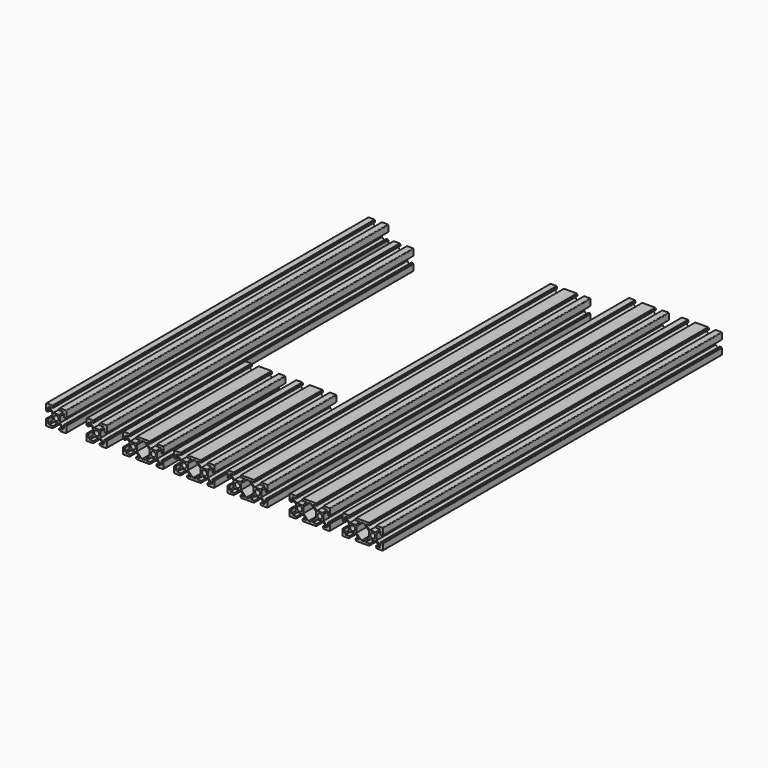
from build123d import *

# Parameters (mm, degrees)
F0_R      = 2.45
F1_DEPTH  = 399
F2_R      = 2.45
F3_DEPTH  = 380
F4_R      = 2.45
F5_DEPTH  = 151
F7_R      = 2.45
F8_DEPTH  = 400
F9_R      = 2.45
F10_DEPTH = 420


with BuildPart() as f1:
    # F0 (on Front) → F1 (new body)
    with BuildSketch(Plane.XZ):
        with BuildLine():
            ThreePointArc((-51.791986, 0), (-51.367722, 0.175736), (-51.191986, 0.6))
            Line((-51.191986, 0.6), (-51.191986, 6.4))
            Line((-51.191986, 6.4), (-51.791986, 6.4))
            Line((-51.791986, 6.4), (-51.791986, 6.95))
            Line((-51.791986, 6.95), (-53.291986, 6.95))
            Line((-53.291986, 6.95), (-53.291986, 3.019239))
            Line((-53.291986, 3.019239), (-57.391986, 7.119239))
            Line((-57.391986, 7.119239), (-57.391986, 12.880761))
            Line((-57.391986, 12.880761), (-53.291986, 16.980761))
            Line((-53.291986, 16.980761), (-53.291986, 13.05))
            Line((-53.291986, 13.05), (-51.791986, 13.05))
            Line((-51.791986, 13.05), (-51.791986, 13.6))
            Line((-51.791986, 13.6), (-51.191986, 13.6))
            Line((-51.191986, 13.6), (-51.191986, 19.4))
            ThreePointArc((-51.191986, 19.4), (-51.367722, 19.824264), (-51.791986, 20))
            Line((-51.791986, 20), (-57.591986, 20))
            Line((-57.591986, 20), (-57.591986, 19.4))
            Line((-57.591986, 19.4), (-58.141986, 19.4))
            Line((-58.141986, 19.4), (-58.141986, 17.9))
            Line((-58.141986, 17.9), (-54.211225, 17.9))
            Line((-54.211225, 17.9), (-58.311225, 13.8))
            Line((-58.311225, 13.8), (-64.072747, 13.8))
            Line((-64.072747, 13.8), (-68.172747, 17.9))
            Line((-68.172747, 17.9), (-64.241986, 17.9))
            Line((-64.241986, 17.9), (-64.241986, 19.4))
            Line((-64.241986, 19.4), (-64.791986, 19.4))
            Line((-64.791986, 19.4), (-64.791986, 20))
            Line((-64.791986, 20), (-70.591986, 20))
            ThreePointArc((-70.591986, 20), (-71.01625, 19.824264), (-71.191986, 19.4))
            Line((-71.191986, 19.4), (-71.191986, 13.6))
            Line((-71.191986, 13.6), (-70.591986, 13.6))
            Line((-70.591986, 13.6), (-70.591986, 13.05))
            Line((-70.591986, 13.05), (-69.091986, 13.05))
            Line((-69.091986, 13.05), (-69.091986, 16.980761))
            Line((-69.091986, 16.980761), (-64.991986, 12.880761))
            Line((-64.991986, 12.880761), (-64.991986, 7.119239))
            Line((-64.991986, 7.119239), (-69.091986, 3.019239))
            Line((-69.091986, 3.019239), (-69.091986, 6.95))
            Line((-69.091986, 6.95), (-70.591986, 6.95))
            Line((-70.591986, 6.95), (-70.591986, 6.4))
            Line((-70.591986, 6.4), (-71.191986, 6.4))
            Line((-71.191986, 6.4), (-71.191986, 0.6))
            ThreePointArc((-71.191986, 0.6), (-71.01625, 0.175736), (-70.591986, 0))
            Line((-70.591986, 0), (-64.791986, 0))
            Line((-64.791986, 0), (-64.791986, 0.6))
            Line((-64.791986, 0.6), (-64.241986, 0.6))
            Line((-64.241986, 0.6), (-64.241986, 2.1))
            Line((-64.241986, 2.1), (-68.172747, 2.1))
            Line((-68.172747, 2.1), (-64.072747, 6.2))
            Line((-64.072747, 6.2), (-58.311225, 6.2))
            Line((-58.311225, 6.2), (-54.211225, 2.1))
            Line((-54.211225, 2.1), (-58.141986, 2.1))
            Line((-58.141986, 2.1), (-58.141986, 0.6))
            Line((-58.141986, 0.6), (-57.591986, 0.6))
            Line((-57.591986, 0.6), (-57.591986, 0))
            Line((-57.591986, 0), (-51.791986, 0))
        make_face()
        with Locations((-61.191986, 10)):
            Circle(F0_R, mode=Mode.SUBTRACT)
    extrude(amount=-F1_DEPTH)


with BuildPart() as f3:
    # F2 (on Front) → F3 (new body)
    with BuildSketch(Plane.XZ):
        with BuildLine():
            ThreePointArc((-11.662402, -0.007185), (-11.238138, 0.168551), (-11.062402, 0.592815))
            Line((-11.062402, 0.592815), (-11.062402, 2.985624))
            Line((-11.062402, 2.985624), (-11.062402, 6.392815))
            Line((-11.062402, 6.392815), (-11.662402, 6.392815))
            Line((-11.662402, 6.392815), (-11.662402, 6.942815))
            Line((-11.662402, 6.942815), (-13.162402, 6.942815))
            Line((-13.162402, 6.942815), (-13.162402, 3.012054))
            Line((-13.162402, 3.012054), (-17.262402, 7.112054))
            Line((-17.262402, 7.112054), (-17.262402, 12.873576))
            Line((-17.262402, 12.873576), (-13.162402, 16.973576))
            Line((-13.162402, 16.973576), (-13.162402, 13.042815))
            Line((-13.162402, 13.042815), (-11.662402, 13.042815))
            Line((-11.662402, 13.042815), (-11.662402, 13.592815))
            Line((-11.662402, 13.592815), (-11.062402, 13.592815))
            Line((-11.062402, 13.592815), (-11.062402, 19.392815))
            ThreePointArc((-11.062402, 19.392815), (-11.238138, 19.817079), (-11.662402, 19.992815))
            Line((-11.662402, 19.992815), (-17.462402, 19.992815))
            Line((-17.462402, 19.992815), (-17.462402, 19.392815))
            Line((-17.462402, 19.392815), (-18.012402, 19.392815))
            Line((-18.012402, 19.392815), (-18.012402, 17.892815))
            Line((-18.012402, 17.892815), (-14.081641, 17.892815))
            Line((-14.081641, 17.892815), (-18.181641, 13.792815))
            Line((-18.181641, 13.792815), (-23.943164, 13.792815))
            Line((-23.943164, 13.792815), (-28.043164, 17.892815))
            Line((-28.043164, 17.892815), (-24.112402, 17.892815))
            Line((-24.112402, 17.892815), (-24.112402, 19.392815))
            Line((-24.112402, 19.392815), (-24.662402, 19.392815))
            Line((-24.662402, 19.392815), (-24.662402, 19.992815))
            Line((-24.662402, 19.992815), (-30.462402, 19.992815))
            ThreePointArc((-30.462402, 19.992815), (-30.886667, 19.817079), (-31.062402, 19.392815))
            Line((-31.062402, 19.392815), (-31.062402, 13.592815))
            Line((-31.062402, 13.592815), (-30.462402, 13.592815))
            Line((-30.462402, 13.592815), (-30.462402, 13.042815))
            Line((-30.462402, 13.042815), (-28.962402, 13.042815))
            Line((-28.962402, 13.042815), (-28.962402, 16.973576))
            Line((-28.962402, 16.973576), (-24.862402, 12.873576))
            Line((-24.862402, 12.873576), (-24.862402, 7.112054))
            Line((-24.862402, 7.112054), (-28.962402, 3.012054))
            Line((-28.962402, 3.012054), (-28.962402, 6.942815))
            Line((-28.962402, 6.942815), (-30.462402, 6.942815))
            Line((-30.462402, 6.942815), (-30.462402, 6.392815))
            Line((-30.462402, 6.392815), (-31.062402, 6.392815))
            Line((-31.062402, 6.392815), (-31.062402, 2.985624))
            Line((-31.062402, 2.985624), (-31.062402, 0.592815))
            ThreePointArc((-31.062402, 0.592815), (-30.886667, 0.168551), (-30.462402, -0.007185))
            Line((-30.462402, -0.007185), (-24.662402, -0.007185))
            Line((-24.662402, -0.007185), (-24.662402, 0.592815))
            Line((-24.662402, 0.592815), (-24.112402, 0.592815))
            Line((-24.112402, 0.592815), (-24.112402, 2.092815))
            Line((-24.112402, 2.092815), (-28.043164, 2.092815))
            Line((-28.043164, 2.092815), (-23.943164, 6.192815))
            Line((-23.943164, 6.192815), (-18.181641, 6.192815))
            Line((-18.181641, 6.192815), (-14.081641, 2.092815))
            Line((-14.081641, 2.092815), (-18.012402, 2.092815))
            Line((-18.012402, 2.092815), (-18.012402, 0.592815))
            Line((-18.012402, 0.592815), (-17.462402, 0.592815))
            Line((-17.462402, 0.592815), (-17.462402, -0.007185))
            Line((-17.462402, -0.007185), (-11.662402, -0.007185))
        make_face()
        with Locations((-21.062402, 9.992815)):
            Circle(F2_R, mode=Mode.SUBTRACT)
    extrude(amount=-F3_DEPTH)


with BuildPart() as f5:
    # F4 (on Front) → F5 (new body)
    with BuildSketch(Plane.XZ):
        with BuildLine():
            Line((12.230867, 6.2), (17.992389, 6.2))
            Line((17.992389, 6.2), (22.092389, 2.1))
            Line((22.092389, 2.1), (18.161628, 2.1))
            Line((18.161628, 2.1), (18.161628, 0.6))
            Line((18.161628, 0.6), (18.711628, 0.6))
            Line((18.711628, 0.6), (18.711628, 0))
            Line((18.711628, 0), (24.511628, 0))
            Line((24.511628, 0), (25.711628, 0))
            Line((25.711628, 0), (31.511628, 0))
            Line((31.511628, 0), (31.511628, 0.6))
            Line((31.511628, 0.6), (32.061628, 0.6))
            Line((32.061628, 0.6), (32.061628, 2.1))
            Line((32.061628, 2.1), (28.130867, 2.1))
            Line((28.130867, 2.1), (32.230867, 6.2))
            Line((32.230867, 6.2), (37.992389, 6.2))
            Line((37.992389, 6.2), (42.092389, 2.1))
            Line((42.092389, 2.1), (38.161628, 2.1))
            Line((38.161628, 2.1), (38.161628, 0.6))
            Line((38.161628, 0.6), (38.711628, 0.6))
            Line((38.711628, 0.6), (38.711628, 0))
            Line((38.711628, 0), (44.511628, 0))
            ThreePointArc((44.511628, 0), (44.935892, 0.175736), (45.111628, 0.6))
            Line((45.111628, 0.6), (45.111628, 2.992809))
            Line((45.111628, 2.992809), (45.111628, 6.4))
            Line((45.111628, 6.4), (44.511628, 6.4))
            Line((44.511628, 6.4), (44.511628, 6.95))
            Line((44.511628, 6.95), (43.011628, 6.95))
            Line((43.011628, 6.95), (43.011628, 3.019239))
            Line((43.011628, 3.019239), (38.911628, 7.119239))
            Line((38.911628, 7.119239), (38.911628, 12.880761))
            Line((38.911628, 12.880761), (43.011628, 16.980761))
            Line((43.011628, 16.980761), (43.011628, 13.05))
            Line((43.011628, 13.05), (44.511628, 13.05))
            Line((44.511628, 13.05), (44.511628, 13.6))
            Line((44.511628, 13.6), (45.111628, 13.6))
            Line((45.111628, 13.6), (45.111628, 19.4))
            ThreePointArc((45.111628, 19.4), (44.935892, 19.824264), (44.511628, 20))
            Line((44.511628, 20), (38.711628, 20))
            Line((38.711628, 20), (38.711628, 19.4))
            Line((38.711628, 19.4), (38.161628, 19.4))
            Line((38.161628, 19.4), (38.161628, 17.9))
            Line((38.161628, 17.9), (42.092389, 17.9))
            Line((42.092389, 17.9), (37.992389, 13.8))
            Line((37.992389, 13.8), (32.230867, 13.8))
            Line((32.230867, 13.8), (28.130867, 17.9))
            Line((28.130867, 17.9), (32.061628, 17.9))
            Line((32.061628, 17.9), (32.061628, 19.4))
            Line((32.061628, 19.4), (31.511628, 19.4))
            Line((31.511628, 19.4), (31.511628, 20))
            Line((31.511628, 20), (25.711628, 20))
            Line((25.711628, 20), (24.511628, 20))
            Line((24.511628, 20), (18.711628, 20))
            Line((18.711628, 20), (18.711628, 19.4))
            Line((18.711628, 19.4), (18.161628, 19.4))
            Line((18.161628, 19.4), (18.161628, 17.9))
            Line((18.161628, 17.9), (22.092389, 17.9))
            Line((22.092389, 17.9), (17.992389, 13.8))
            Line((17.992389, 13.8), (12.230867, 13.8))
            Line((12.230867, 13.8), (8.130867, 17.9))
            Line((8.130867, 17.9), (12.061628, 17.9))
            Line((12.061628, 17.9), (12.061628, 19.4))
            Line((12.061628, 19.4), (11.511628, 19.4))
            Line((11.511628, 19.4), (11.511628, 20))
            Line((11.511628, 20), (5.711628, 20))
            ThreePointArc((5.711628, 20), (5.287364, 19.824264), (5.111628, 19.4))
            Line((5.111628, 19.4), (5.111628, 13.6))
            Line((5.111628, 13.6), (5.711628, 13.6))
            Line((5.711628, 13.6), (5.711628, 13.05))
            Line((5.711628, 13.05), (7.211628, 13.05))
            Line((7.211628, 13.05), (7.211628, 16.980761))
            Line((7.211628, 16.980761), (11.311628, 12.880761))
            Line((11.311628, 12.880761), (11.311628, 7.119239))
            Line((11.311628, 7.119239), (7.211628, 3.019239))
            Line((7.211628, 3.019239), (7.211628, 6.95))
            Line((7.211628, 6.95), (5.711628, 6.95))
            Line((5.711628, 6.95), (5.711628, 6.4))
            Line((5.711628, 6.4), (5.111628, 6.4))
            Line((5.111628, 6.4), (5.111628, 2.992809))
            Line((5.111628, 2.992809), (5.111628, 0.6))
            ThreePointArc((5.111628, 0.6), (5.287364, 0.175736), (5.711628, 0))
            Line((5.711628, 0), (11.511628, 0))
            Line((11.511628, 0), (11.511628, 0.6))
            Line((11.511628, 0.6), (12.061628, 0.6))
            Line((12.061628, 0.6), (12.061628, 2.1))
            Line((12.061628, 2.1), (8.130867, 2.1))
            Line((8.130867, 2.1), (12.230867, 6.2))
        make_face()
        with Locations((15.111628, 10)):
            Circle(F4_R, mode=Mode.SUBTRACT)
        Polygon((23.011628, 3.019239), (18.911628, 7.119239), (18.911628, 12.880761), (23.011628, 16.980761), (23.930867, 17.9), (26.292389, 17.9), (27.211628, 16.980761), (31.311628, 12.880761), (31.311628, 7.119239), (27.211628, 3.019239), (26.292389, 2.1), (23.930867, 2.1), align=None, mode=Mode.SUBTRACT)
        with Locations((35.111628, 10)):
            Circle(F4_R, mode=Mode.SUBTRACT)
    extrude(amount=-F5_DEPTH)


with BuildPart() as f6_1:
    # F6: copy of F5
    add(f5.part.moved(Location((50.5, 0, 0))))


with BuildPart() as f8:
    # F7 (on Front) → F8 (new body)
    with BuildSketch(Plane.XZ):
        with BuildLine():
            Line((115.519244, 6.2), (121.280766, 6.2))
            Line((121.280766, 6.2), (125.380766, 2.1))
            Line((125.380766, 2.1), (121.450005, 2.1))
            Line((121.450005, 2.1), (121.450005, 0.6))
            Line((121.450005, 0.6), (122.000005, 0.6))
            Line((122.000005, 0.6), (122.000005, 0))
            Line((122.000005, 0), (127.800005, 0))
            Line((127.800005, 0), (129.000005, 0))
            Line((129.000005, 0), (134.800005, 0))
            Line((134.800005, 0), (134.800005, 0.6))
            Line((134.800005, 0.6), (135.350005, 0.6))
            Line((135.350005, 0.6), (135.350005, 2.1))
            Line((135.350005, 2.1), (131.419244, 2.1))
            Line((131.419244, 2.1), (135.519244, 6.2))
            Line((135.519244, 6.2), (141.280766, 6.2))
            Line((141.280766, 6.2), (145.380766, 2.1))
            Line((145.380766, 2.1), (141.450005, 2.1))
            Line((141.450005, 2.1), (141.450005, 0.6))
            Line((141.450005, 0.6), (142.000005, 0.6))
            Line((142.000005, 0.6), (142.000005, 0))
            Line((142.000005, 0), (147.800005, 0))
            ThreePointArc((147.800005, 0), (148.224269, 0.175736), (148.400005, 0.6))
            Line((148.400005, 0.6), (148.400005, 2.992809))
            Line((148.400005, 2.992809), (148.400005, 6.4))
            Line((148.400005, 6.4), (147.800005, 6.4))
            Line((147.800005, 6.4), (147.800005, 6.95))
            Line((147.800005, 6.95), (146.300005, 6.95))
            Line((146.300005, 6.95), (146.300005, 3.019239))
            Line((146.300005, 3.019239), (142.200005, 7.119239))
            Line((142.200005, 7.119239), (142.200005, 12.880761))
            Line((142.200005, 12.880761), (146.300005, 16.980761))
            Line((146.300005, 16.980761), (146.300005, 13.05))
            Line((146.300005, 13.05), (147.800005, 13.05))
            Line((147.800005, 13.05), (147.800005, 13.6))
            Line((147.800005, 13.6), (148.400005, 13.6))
            Line((148.400005, 13.6), (148.400005, 19.4))
            ThreePointArc((148.400005, 19.4), (148.224269, 19.824264), (147.800005, 20))
            Line((147.800005, 20), (142.000005, 20))
            Line((142.000005, 20), (142.000005, 19.4))
            Line((142.000005, 19.4), (141.450005, 19.4))
            Line((141.450005, 19.4), (141.450005, 17.9))
            Line((141.450005, 17.9), (145.380766, 17.9))
            Line((145.380766, 17.9), (141.280766, 13.8))
            Line((141.280766, 13.8), (135.519244, 13.8))
            Line((135.519244, 13.8), (131.419244, 17.9))
            Line((131.419244, 17.9), (135.350005, 17.9))
            Line((135.350005, 17.9), (135.350005, 19.4))
            Line((135.350005, 19.4), (134.800005, 19.4))
            Line((134.800005, 19.4), (134.800005, 20))
            Line((134.800005, 20), (129.000005, 20))
            Line((129.000005, 20), (127.800005, 20))
            Line((127.800005, 20), (122.000005, 20))
            Line((122.000005, 20), (122.000005, 19.4))
            Line((122.000005, 19.4), (121.450005, 19.4))
            Line((121.450005, 19.4), (121.450005, 17.9))
            Line((121.450005, 17.9), (125.380766, 17.9))
            Line((125.380766, 17.9), (121.280766, 13.8))
            Line((121.280766, 13.8), (115.519244, 13.8))
            Line((115.519244, 13.8), (111.419244, 17.9))
            Line((111.419244, 17.9), (115.350005, 17.9))
            Line((115.350005, 17.9), (115.350005, 19.4))
            Line((115.350005, 19.4), (114.800005, 19.4))
            Line((114.800005, 19.4), (114.800005, 20))
            Line((114.800005, 20), (109.000005, 20))
            ThreePointArc((109.000005, 20), (108.575741, 19.824264), (108.400005, 19.4))
            Line((108.400005, 19.4), (108.400005, 13.6))
            Line((108.400005, 13.6), (109.000005, 13.6))
            Line((109.000005, 13.6), (109.000005, 13.05))
            Line((109.000005, 13.05), (110.500005, 13.05))
            Line((110.500005, 13.05), (110.500005, 16.980761))
            Line((110.500005, 16.980761), (114.600005, 12.880761))
            Line((114.600005, 12.880761), (114.600005, 7.119239))
            Line((114.600005, 7.119239), (110.500005, 3.019239))
            Line((110.500005, 3.019239), (110.500005, 6.95))
            Line((110.500005, 6.95), (109.000005, 6.95))
            Line((109.000005, 6.95), (109.000005, 6.4))
            Line((109.000005, 6.4), (108.400005, 6.4))
            Line((108.400005, 6.4), (108.400005, 2.992809))
            Line((108.400005, 2.992809), (108.400005, 0.6))
            ThreePointArc((108.400005, 0.6), (108.575741, 0.175736), (109.000005, 0))
            Line((109.000005, 0), (114.800005, 0))
            Line((114.800005, 0), (114.800005, 0.6))
            Line((114.800005, 0.6), (115.350005, 0.6))
            Line((115.350005, 0.6), (115.350005, 2.1))
            Line((115.350005, 2.1), (111.419244, 2.1))
            Line((111.419244, 2.1), (115.519244, 6.2))
        make_face()
        with Locations((118.400005, 10)):
            Circle(F7_R, mode=Mode.SUBTRACT)
        Polygon((126.300005, 3.019239), (122.200005, 7.119239), (122.200005, 12.880761), (126.300005, 16.980761), (127.219244, 17.9), (129.580766, 17.9), (130.500005, 16.980761), (134.600005, 12.880761), (134.600005, 7.119239), (130.500005, 3.019239), (129.580766, 2.1), (127.219244, 2.1), align=None, mode=Mode.SUBTRACT)
        with Locations((138.400005, 10)):
            Circle(F7_R, mode=Mode.SUBTRACT)
    extrude(amount=-F8_DEPTH)


with BuildPart() as f10:
    # F9 (on Front) → F10 (new body)
    with BuildSketch(Plane.XZ):
        with BuildLine():
            Line((177.169244, 5.774545), (182.930767, 5.774545))
            Line((182.930767, 5.774545), (187.030767, 1.674545))
            Line((187.030767, 1.674545), (183.100005, 1.674545))
            Line((183.100005, 1.674545), (183.100005, 0.174545))
            Line((183.100005, 0.174545), (183.650005, 0.174545))
            Line((183.650005, 0.174545), (183.650005, -0.425455))
            Line((183.650005, -0.425455), (189.450005, -0.425455))
            Line((189.450005, -0.425455), (190.650005, -0.425455))
            Line((190.650005, -0.425455), (196.450005, -0.425455))
            Line((196.450005, -0.425455), (196.450005, 0.174545))
            Line((196.450005, 0.174545), (197.000005, 0.174545))
            Line((197.000005, 0.174545), (197.000005, 1.674545))
            Line((197.000005, 1.674545), (193.069244, 1.674545))
            Line((193.069244, 1.674545), (197.169244, 5.774545))
            Line((197.169244, 5.774545), (202.930767, 5.774545))
            Line((202.930767, 5.774545), (207.030767, 1.674545))
            Line((207.030767, 1.674545), (203.100005, 1.674545))
            Line((203.100005, 1.674545), (203.100005, 0.174545))
            Line((203.100005, 0.174545), (203.650005, 0.174545))
            Line((203.650005, 0.174545), (203.650005, -0.425455))
            Line((203.650005, -0.425455), (209.450005, -0.425455))
            ThreePointArc((209.450005, -0.425455), (209.874269, -0.249719), (210.050005, 0.174545))
            Line((210.050005, 0.174545), (210.050005, 2.567354))
            Line((210.050005, 2.567354), (210.050005, 5.974545))
            Line((210.050005, 5.974545), (209.450005, 5.974545))
            Line((209.450005, 5.974545), (209.450005, 6.524545))
            Line((209.450005, 6.524545), (207.950005, 6.524545))
            Line((207.950005, 6.524545), (207.950005, 2.593784))
            Line((207.950005, 2.593784), (203.850005, 6.693784))
            Line((203.850005, 6.693784), (203.850005, 12.455306))
            Line((203.850005, 12.455306), (207.950005, 16.555306))
            Line((207.950005, 16.555306), (207.950005, 12.624545))
            Line((207.950005, 12.624545), (209.450005, 12.624545))
            Line((209.450005, 12.624545), (209.450005, 13.174545))
            Line((209.450005, 13.174545), (210.050005, 13.174545))
            Line((210.050005, 13.174545), (210.050005, 18.974545))
            ThreePointArc((210.050005, 18.974545), (209.874269, 19.398809), (209.450005, 19.574545))
            Line((209.450005, 19.574545), (203.650005, 19.574545))
            Line((203.650005, 19.574545), (203.650005, 18.974545))
            Line((203.650005, 18.974545), (203.100005, 18.974545))
            Line((203.100005, 18.974545), (203.100005, 17.474545))
            Line((203.100005, 17.474545), (207.030767, 17.474545))
            Line((207.030767, 17.474545), (202.930767, 13.374545))
            Line((202.930767, 13.374545), (197.169244, 13.374545))
            Line((197.169244, 13.374545), (193.069244, 17.474545))
            Line((193.069244, 17.474545), (197.000005, 17.474545))
            Line((197.000005, 17.474545), (197.000005, 18.974545))
            Line((197.000005, 18.974545), (196.450005, 18.974545))
            Line((196.450005, 18.974545), (196.450005, 19.574545))
            Line((196.450005, 19.574545), (190.650005, 19.574545))
            Line((190.650005, 19.574545), (189.450005, 19.574545))
            Line((189.450005, 19.574545), (183.650005, 19.574545))
            Line((183.650005, 19.574545), (183.650005, 18.974545))
            Line((183.650005, 18.974545), (183.100005, 18.974545))
            Line((183.100005, 18.974545), (183.100005, 17.474545))
            Line((183.100005, 17.474545), (187.030767, 17.474545))
            Line((187.030767, 17.474545), (182.930767, 13.374545))
            Line((182.930767, 13.374545), (177.169244, 13.374545))
            Line((177.169244, 13.374545), (173.069244, 17.474545))
            Line((173.069244, 17.474545), (177.000005, 17.474545))
            Line((177.000005, 17.474545), (177.000005, 18.974545))
            Line((177.000005, 18.974545), (176.450005, 18.974545))
            Line((176.450005, 18.974545), (176.450005, 19.574545))
            Line((176.450005, 19.574545), (170.650005, 19.574545))
            ThreePointArc((170.650005, 19.574545), (170.225741, 19.398809), (170.050005, 18.974545))
            Line((170.050005, 18.974545), (170.050005, 13.174545))
            Line((170.050005, 13.174545), (170.650005, 13.174545))
            Line((170.650005, 13.174545), (170.650005, 12.624545))
            Line((170.650005, 12.624545), (172.150005, 12.624545))
            Line((172.150005, 12.624545), (172.150005, 16.555306))
            Line((172.150005, 16.555306), (176.250005, 12.455306))
            Line((176.250005, 12.455306), (176.250005, 6.693784))
            Line((176.250005, 6.693784), (172.150005, 2.593784))
            Line((172.150005, 2.593784), (172.150005, 6.524545))
            Line((172.150005, 6.524545), (170.650005, 6.524545))
            Line((170.650005, 6.524545), (170.650005, 5.974545))
            Line((170.650005, 5.974545), (170.050005, 5.974545))
            Line((170.050005, 5.974545), (170.050005, 2.567354))
            Line((170.050005, 2.567354), (170.050005, 0.174545))
            ThreePointArc((170.050005, 0.174545), (170.225741, -0.249719), (170.650005, -0.425455))
            Line((170.650005, -0.425455), (176.450005, -0.425455))
            Line((176.450005, -0.425455), (176.450005, 0.174545))
            Line((176.450005, 0.174545), (177.000005, 0.174545))
            Line((177.000005, 0.174545), (177.000005, 1.674545))
            Line((177.000005, 1.674545), (173.069244, 1.674545))
            Line((173.069244, 1.674545), (177.169244, 5.774545))
        make_face()
        with Locations((180.050005, 9.574545)):
            Circle(F9_R, mode=Mode.SUBTRACT)
        Polygon((187.950005, 2.593784), (183.850005, 6.693784), (183.850005, 12.455306), (187.950005, 16.555306), (188.869244, 17.474545), (191.230767, 17.474545), (192.150005, 16.555306), (196.250005, 12.455306), (196.250005, 6.693784), (192.150005, 2.593784), (191.230767, 1.674545), (188.869244, 1.674545), align=None, mode=Mode.SUBTRACT)
        with Locations((200.050005, 9.574545)):
            Circle(F9_R, mode=Mode.SUBTRACT)
    extrude(amount=-F10_DEPTH)


with BuildPart() as f11_1:
    # F11: copy of F10
    add(f10.part.moved(Location((52.5, 0, 0))))


solid = Compound([f1.part, f3.part, f5.part, f6_1.part, f8.part, f10.part, f11_1.part])
